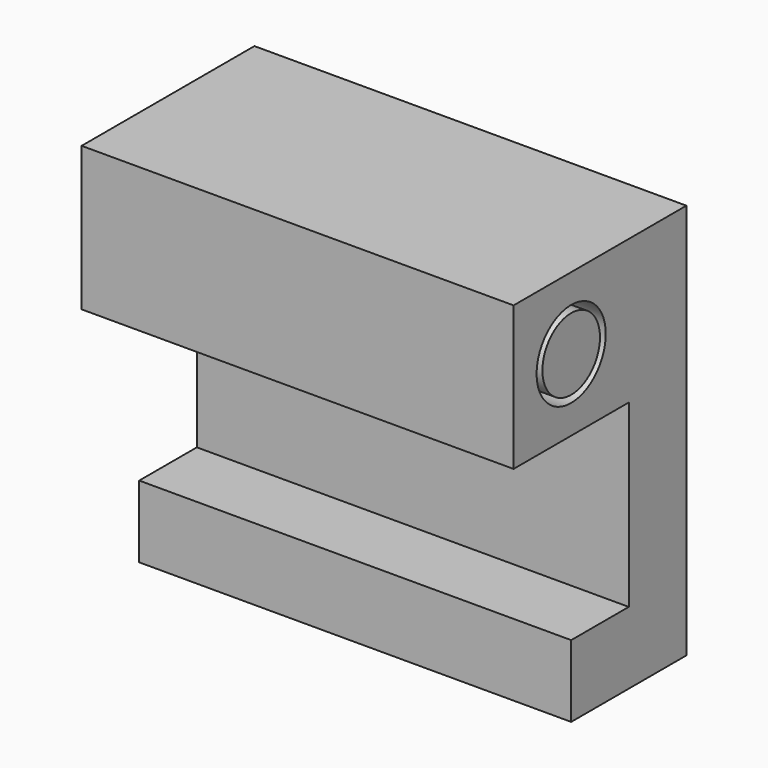
from build123d import *

# Parameters (mm, degrees)
F0_R     = 3.175
F1_DEPTH = 19.05
F2_R     = 3.81
F3_DEPTH = 19.05


with BuildPart() as f1:
    # F0 (on Right) → F1 (new body, symmetric)
    with BuildSketch(Plane.YZ):
        Circle(F0_R)
    extrude(amount=F1_DEPTH, both=True)


with BuildPart() as f3:
    # F2 (on Right) → F3 (new body, symmetric)
    with BuildSketch(Plane.YZ):
        Polygon((12.7, 6.35), (-6.35, 6.35), (-6.35, -6.35), (6.35, -6.35), (6.35, -22.225), (0, -22.225), (0, -28.575), (12.7, -28.575), align=None)
        Circle(F2_R, mode=Mode.SUBTRACT)
    extrude(amount=F3_DEPTH, both=True)


solid = Compound([f1.part, f3.part])
